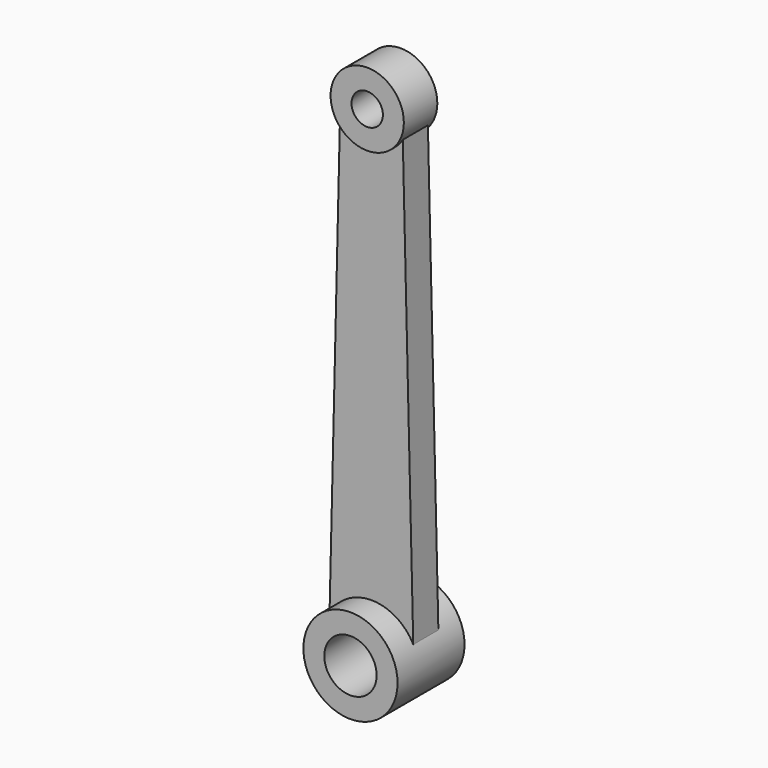
from build123d import *

# Parameters (mm, degrees)
F0_R     = 4.5
F1_DEPTH = 4
F2_R     = 3.5
F3_DEPTH = 2
F5_DEPTH = 1.5
F7_D     = 5
F8_D     = 3


with BuildPart() as f1:
    # F0 (on Front) → F1 (new body, symmetric)
    with BuildSketch(Plane.XZ):
        Circle(F0_R)
    extrude(amount=F1_DEPTH, both=True)

    # F7 (through all)
    with Locations(Plane.XZ.offset(4)):
        with Locations((0, 0)):
            Hole(F7_D / 2)


with BuildPart() as f3:
    # F2 (on Front) → F3 (new body, symmetric)
    with BuildSketch(Plane.XZ):
        with Locations((0, 46)):
            Circle(F2_R)
    extrude(amount=F3_DEPTH, both=True)

    # F8 (through all)
    with Locations(Plane.XZ.offset(4)):
        with Locations((0, 46)):
            Hole(F8_D / 2)


with BuildPart() as f5:
    # F4 (on Front) → F5 (new body, symmetric)
    with BuildSketch(Plane.XZ):
        with BuildLine():
            ThreePointArc((3, 44.1972243623), (0, 42.5), (-3, 44.1972243623))
            Line((-3, 44.1972243623), (-4, 2.0615528128))
            ThreePointArc((-4, 2.0615528128), (0, 4.5), (4, 2.0615528128))
            Line((4, 2.0615528128), (3, 44.1972243623))
        make_face()
    extrude(amount=F5_DEPTH, both=True)


solid = Compound([f1.part, f3.part, f5.part])
